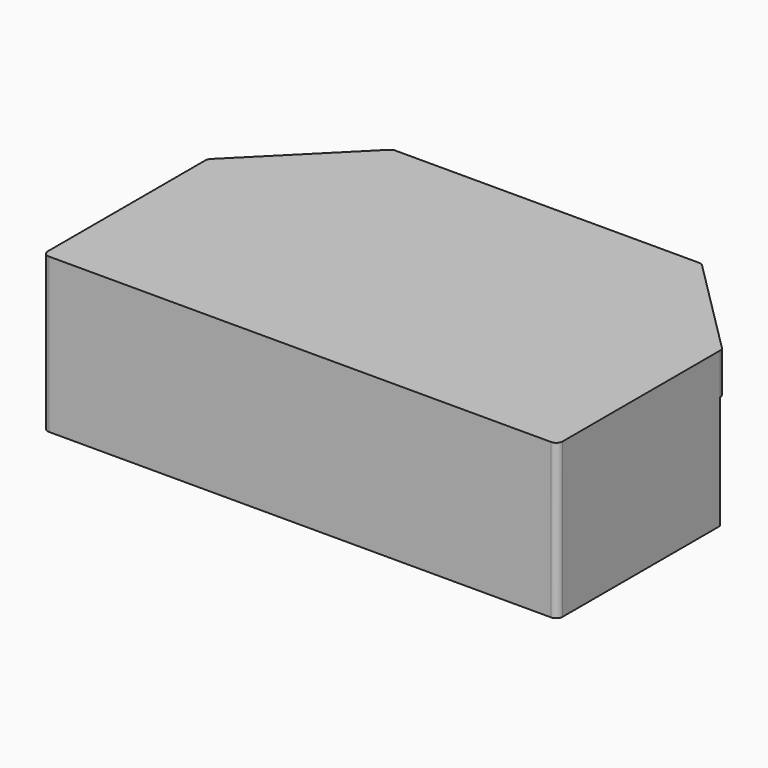
from build123d import *

# Parameters (mm, degrees)
F1_DEPTH = 4.064
F3_DEPTH = 15.24
F4_DEPTH = 15.24


with BuildPart() as f1:
    # F0 (on Top) → F1 (new body)
    with BuildSketch(Plane.XY):
        with BuildLine():
            Line((14.976974, 10.16), (-14.976974, 10.16))
            ThreePointArc((-14.976974, 10.16), (-15.219978, 10.111664), (-15.425987, 9.974013))
            Line((-15.425987, 9.974013), (-25.214013, 0.185987))
            ThreePointArc((-25.214013, 0.185987), (-25.351664, -0.020022), (-25.4, -0.263026))
            Line((-25.4, -0.263026), (-25.4, -1.251))
            Line((-25.4, -1.251), (-25.4, -19.685))
            ThreePointArc((-25.4, -19.685), (-25.214013, -20.134013), (-24.765, -20.32))
            Line((-24.765, -20.32), (24.765, -20.32))
            ThreePointArc((24.765, -20.32), (25.214013, -20.134013), (25.4, -19.685))
            Line((25.4, -19.685), (25.4, -0.263026))
            ThreePointArc((25.4, -0.263026), (25.351664, -0.020022), (25.214013, 0.185987))
            Line((25.214013, 0.185987), (15.425987, 9.974013))
            ThreePointArc((15.425987, 9.974013), (15.219978, 10.111664), (14.976974, 10.16))
        make_face()
    extrude(amount=F1_DEPTH)

    # F2 (on face) → F3 (join)
    with BuildSketch(Plane.XY.offset(4.064)):
        with BuildLine():
            Line((-25.4, -0.263026), (-25.4, -19.685))
            ThreePointArc((-25.4, -19.685), (-25.214013, -20.134013), (-24.765, -20.32))
            Line((-24.765, -20.32), (24.765, -20.32))
            ThreePointArc((24.765, -20.32), (25.214013, -20.134013), (25.4, -19.685))
            Line((25.4, -19.685), (25.4, -0.263026))
            Line((25.4, -0.263026), (-25.4, -0.263026))
        make_face()
    extrude(amount=-F3_DEPTH)

    # F2 (on face) → F4 (join)
    with BuildSketch(Plane.XY.offset(4.064)):
        with BuildLine():
            Line((-25.4, -0.263026), (-25.4, -19.685))
            ThreePointArc((-25.4, -19.685), (-25.214013, -20.134013), (-24.765, -20.32))
            Line((-24.765, -20.32), (24.765, -20.32))
            ThreePointArc((24.765, -20.32), (25.214013, -20.134013), (25.4, -19.685))
            Line((25.4, -19.685), (25.4, -0.263026))
            Line((25.4, -0.263026), (-25.4, -0.263026))
        make_face()
    extrude(amount=-F4_DEPTH)


solid = f1.part
